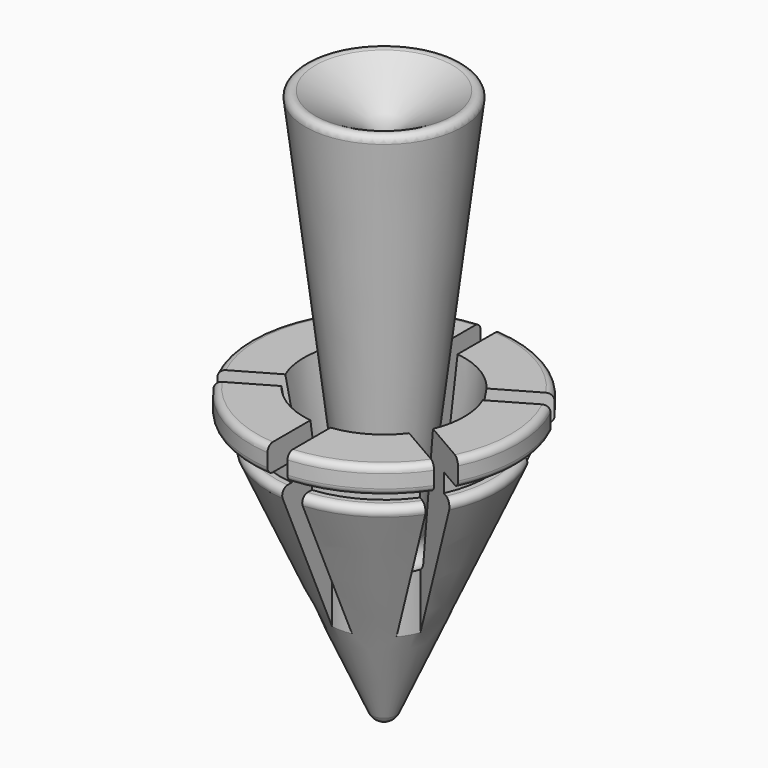
from build123d import *

# Parameters (mm, degrees)
F2_R          = 0.5
F4_DEPTH      = 25
F4_DEPTH_BACK = 25


with BuildPart() as f1:
    # F0 (on Front) → F1 (revolve)
    with BuildSketch(Plane.XZ):
        with BuildLine():
            ThreePointArc((-0.9137150082, 2.0545430918), (-0.5448139075, 1.6223417257), (0, 1.4608987042))
            Line((0, 1.4608987042), (0, 40))
            Line((0, 40), (-6, 43.4641016151))
            Line((-6, 43.4641016151), (-2.5, 14.1248302511))
            ThreePointArc((-2.5, 14.1248302511), (-3.3551474421, 13.0159177111), (-4.4805394379, 13.8492585927))
            Line((-4.4805394379, 13.8492585927), (-6, 23.4))
            Line((-6, 23.4), (-10, 23.4))
            Line((-10, 23.4), (-10, 21.4))
            Line((-10, 21.4), (-7.73, 21.4))
            Line((-7.73, 21.4), (-7.73, 20))
            Line((-7.73, 20), (-8.125, 20))
            ThreePointArc((-8.125, 20), (-8.5442784893, 19.7724069537), (-8.5818575041, 19.2968221938))
            Line((-8.5818575041, 19.2968221938), (-0.9137150082, 2.0545430918))
        make_face()
    revolve(axis=Axis((0, 0, 20.7304493521), (0, 0, 1)))

    # F2
    f2_edges = [f1.edges().sort_by_distance(p)[0] for p in [
        (10, 0, 23.4),
        (10, 0, 21.4),
        (6, 0, 43.464102),
    ]]
    fillet(f2_edges, radius=F2_R)

    # F3 (on Top) → F4 (cut, two sides)
    with BuildSketch(Plane.XY) as f4_sk:
        with BuildLine():
            Line((0.75, 3.9290584114), (0.75, 10.7104069801))
            Line((0.75, 10.7104069801), (-0.75, 10.7104069801))
            Line((-0.75, 10.7104069801), (-0.75, 3.9290584114))
            ThreePointArc((-0.75, 3.9290584114), (0, 4), (0.75, 3.9290584114))
        make_face()
        with BuildLine():
            ThreePointArc((-3.7776643972, 1.3150101528), (-3.4641016151, 2), (-3.0276643972, 2.6140482585))
            Line((-3.0276643972, 2.6140482585), (-8.9004845296, 6.0047225429))
            Line((-8.9004845296, 6.0047225429), (-9.6504845296, 4.7056844372))
            Line((-9.6504845296, 4.7056844372), (-3.7776643972, 1.3150101528))
        make_face()
        with BuildLine():
            ThreePointArc((-3.0276643972, -2.6140482585), (-3.4641016151, -2), (-3.7776643972, -1.3150101528))
            Line((-3.7776643972, -1.3150101528), (-9.6504845296, -4.7056844372))
            Line((-9.6504845296, -4.7056844372), (-8.9004845296, -6.0047225429))
            Line((-8.9004845296, -6.0047225429), (-3.0276643972, -2.6140482585))
        make_face()
        with BuildLine():
            Line((0.75, -10.7104069801), (0.75, -3.9290584114))
            ThreePointArc((0.75, -3.9290584114), (0, -4), (-0.75, -3.9290584114))
            Line((-0.75, -3.9290584114), (-0.75, -10.7104069801))
            Line((-0.75, -10.7104069801), (0.75, -10.7104069801))
        make_face()
        with BuildLine():
            Line((9.6504845296, -4.7056844372), (3.7776643972, -1.3150101528))
            ThreePointArc((3.7776643972, -1.3150101528), (3.4641016151, -2), (3.0276643972, -2.6140482585))
            Line((3.0276643972, -2.6140482585), (8.9004845296, -6.0047225429))
            Line((8.9004845296, -6.0047225429), (9.6504845296, -4.7056844372))
        make_face()
        with BuildLine():
            Line((8.9004845296, 6.0047225429), (3.0276643972, 2.6140482585))
            ThreePointArc((3.0276643972, 2.6140482585), (3.4641016151, 2), (3.7776643972, 1.3150101528))
            Line((3.7776643972, 1.3150101528), (9.6504845296, 4.7056844372))
            Line((9.6504845296, 4.7056844372), (8.9004845296, 6.0047225429))
        make_face()
    extrude(amount=-F4_DEPTH, mode=Mode.SUBTRACT)
    extrude(f4_sk.sketch, amount=F4_DEPTH_BACK, mode=Mode.SUBTRACT)


solid = f1.part
